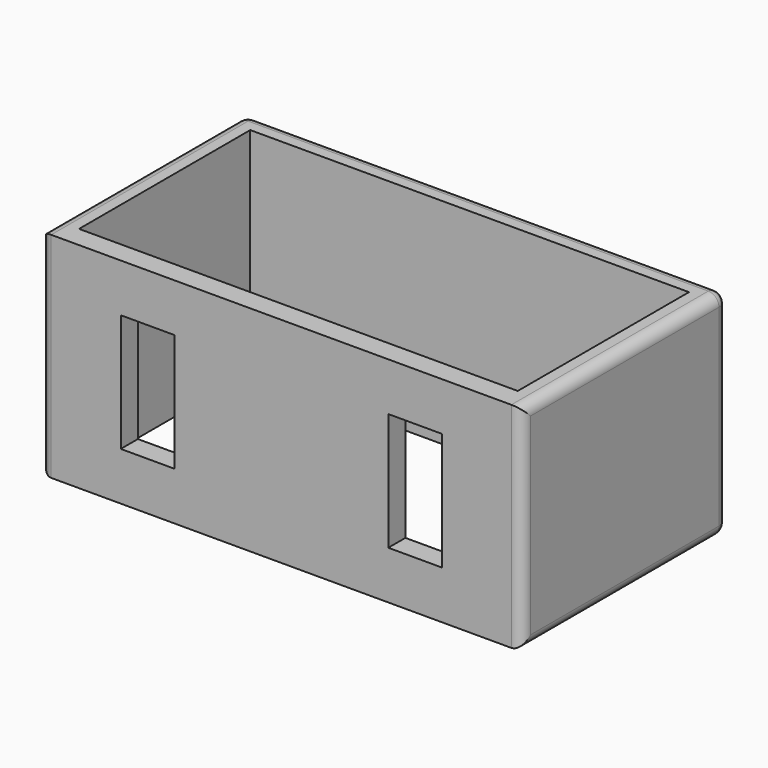
from build123d import *

# Parameters (mm, degrees)
F0_W     = 45
F0_H     = 20
F1_DEPTH = 24
F2_W     = 41
F2_H     = 20
F3_DEPTH = 20
F5_W     = 5
F5_H     = 11
F6_DEPTH = 5
F7_R     = 1


with BuildPart() as f1:
    # F0 (on Front) → F1 (new body)
    with BuildSketch(Plane.XZ):
        with Locations((22.5, -10)):
            Rectangle(F0_W, F0_H)
    extrude(amount=F1_DEPTH)

    # F2 (on Top) → F3 (cut, symmetric)
    with BuildSketch(Plane.XY):
        with Locations((22.5, -12)):
            Rectangle(F2_W, F2_H)
    extrude(amount=F3_DEPTH, both=True, mode=Mode.SUBTRACT)

    # F5 (on offset) → F6 (cut)
    with BuildSketch(Plane(origin=(0, -22, 0), x_dir=(-1, 0, 0), z_dir=(0, 1, 0))):
        with Locations((-10, -10)):
            Rectangle(F5_W, F5_H)
        with Locations((-35, -9.9999997467)):
            Rectangle(F5_W, F5_H)
    extrude(amount=-F6_DEPTH, mode=Mode.SUBTRACT)

    # F7
    f7_edges = [f1.edges().sort_by_distance(p)[0] for p in [
        (45, -12, -20),
        (45, -12, 0),
        (45, 0, -10),
        (45, -24, -10),
        (22.5, 0, 0),
        (0, 0, -10),
        (22.5, 0, -20),
        (0, -12, 0),
        (0, -12, -20),
        (0, -24, -10),
    ]]
    fillet(f7_edges, radius=F7_R)


solid = f1.part
